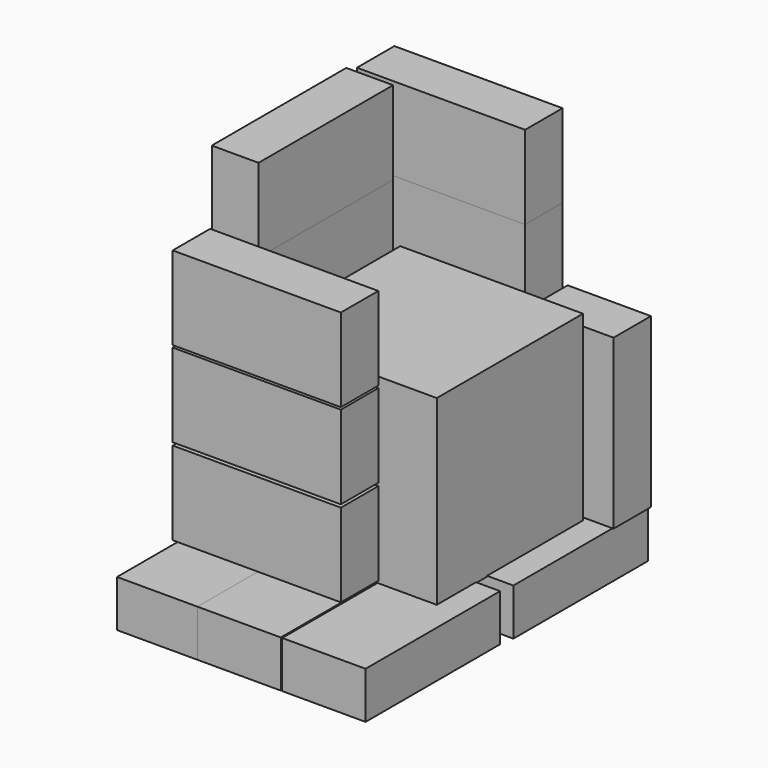
from build123d import *

# Parameters (mm, degrees)
F0_W      = 230
F0_H      = 114
F1_DEPTH  = 64
F2_W      = 250
F2_H      = 250
F3_DEPTH  = 250
F9_ANGLE  = 90
F12_ANGLE = 90
F16_ANGLE = -90
F21_ANGLE = 90
F23_ANGLE = -90
F32_ANGLE = 90


with BuildPart() as f1:
    # F0 (on Front) → F1 (new body)
    with BuildSketch(Plane.XZ):
        with Locations((115, 57)):
            Rectangle(F0_W, F0_H)
    extrude(amount=F1_DEPTH)


with BuildPart() as f3:
    # F2 (on Top) → F3 (new body)
    with BuildSketch(Plane.XY):
        with Locations((125, 125)):
            Rectangle(F2_W, F2_H)
    extrude(amount=F3_DEPTH)


with BuildPart() as f4_1:
    # F4: copy of F1
    add(f1.part.moved(Location((-60, 0, 110))))


with BuildPart() as f1_1:
    # F5: moved
    add(f1.part.moved(Location((-60, 0, 0))))


with BuildPart() as f6_1:
    # F6: copy of F4_1
    add(f4_1.part.moved(Location((0, 315, 0))))


with BuildPart() as f7_1:
    # F7: copy of F1
    add(f1_1.part.moved(Location((0, 315, 0))))


with BuildPart() as f8_1:
    # F8: copy of F1
    add(f1_1.part.moved(Location((-284, 0, 0))))


with BuildPart() as f8_1_1:
    # F9: moved
    add(f8_1.part.rotate(Axis((-344, 0, 57), (0, 0, -1)), F9_ANGLE))


with BuildPart() as f8_1_2:
    # F10: moved
    add(f8_1_1.part.moved(Location((343, 239, 0))))


with BuildPart() as f11_1:
    # F11: copy of F1
    add(f1_1.part.moved(Location((0, 0, -113))))


with BuildPart() as f11_1_1:
    # F12: moved
    add(f11_1.part.rotate(Axis((55, 0, 1), (1, 0, 0)), F12_ANGLE))


with BuildPart() as f13_1:
    # F13: copy of F11_1
    add(f11_1_1.part.moved(Location((0, 212, 0))))


with BuildPart() as f11_1_2:
    # F14: moved
    add(f11_1_1.part.moved(Location((0, -5, 0))))


with BuildPart() as f15_1:
    # F15: copy of F13_1
    add(f13_1.part.moved(Location((0, 131, 0))))


with BuildPart() as f15_1_1:
    # F16: moved
    add(f15_1.part.rotate(Axis((-60, 343, -31), (0, 0, 1)), F16_ANGLE))


with BuildPart() as f15_1_2:
    # F17: moved
    add(f15_1_1.part.moved(Location((0, -27, 0))))


with BuildPart() as f20_1:
    # F20: copy of F15_1
    add(f15_1_2.part.moved(Location((0, -236, 0))))


with BuildPart() as f20_1_1:
    # F21: moved
    add(f20_1.part.rotate(Axis((54, 80, -31), (0, 0, 1)), F21_ANGLE))


with BuildPart() as f22_1:
    # F22: copy of F15_1
    add(f15_1_2.part.moved(Location((108, 0, 0))))


with BuildPart() as f23_1:
    # F23: copy of F20_1
    add(f20_1_1.part.rotate(Axis((54, -34, -31), (0, 0, 1)), F23_ANGLE))


with BuildPart() as f23_1_1:
    # F24: moved
    add(f23_1.part.moved(Location((-111, 101, 0))))


with BuildPart() as f26_1:
    # F26: copy of F23_1
    add(f23_1_1.part.moved(Location((110, 0, 0))))


with BuildPart() as f27_1:
    # F27: copy of F22_1
    add(f22_1.part.moved(Location((112, 0, 0))))


with BuildPart() as f28_1:
    # F28: copy of F8_1
    add(f8_1_2.part.moved(Location((112, 0, 0))))


with BuildPart() as f29_1:
    # F29: copy of F8_1
    add(f8_1_2.part.moved(Location((0, 0, 112))))


with BuildPart() as f30_1:
    # F30: copy of F6_1
    add(f6_1.part.moved(Location((0, 0, 108))))


with BuildPart() as f31_1:
    # F31: copy of F7_1
    add(f7_1.part.moved(Location((7, 0, 0))))


with BuildPart() as f31_1_1:
    # F32: moved
    add(f31_1.part.rotate(Axis((177, 283, 0), (0, 1, 0)), F32_ANGLE))


with BuildPart() as f33_1:
    # F33: copy of F30_1
    add(f30_1.part.moved(Location((0, 0, 109))))


with BuildPart() as f33_2:
    # F33: copy of F29_1
    add(f29_1.part.moved(Location((0, 0, 109))))


with BuildPart() as f34_1:
    # F34: copy of F33_2
    add(f33_2.part.moved(Location((0, 0, 109))))


with BuildPart() as f35_1:
    # F35: copy of F27_1
    add(f27_1.part.moved(Location((112, 0, 0))))


with BuildPart() as f4_1_1:
    # F36: moved
    add(f4_1.part.moved(Location((0, 0, 8))))


with BuildPart() as f22_1_1:
    # F38: moved
    add(f22_1.part.moved(Location((9, 0, 0))))


with BuildPart() as f27_1_1:
    # F38: moved
    add(f27_1.part.moved(Location((9, 0, 0))))


with BuildPart() as f27_1_2:
    # F39: moved
    add(f27_1_1.part.moved(Location((3, 0, 0))))


with BuildPart() as f31_1_2:
    # F40: moved
    add(f31_1_1.part.moved(Location((0, 0, 4))))


with BuildPart() as f6_1_1:
    # F40: moved
    add(f6_1.part.moved(Location((0, 0, 4))))


with BuildPart() as f30_1_1:
    # F40: moved
    add(f30_1.part.moved(Location((0, 0, 4))))


with BuildPart() as f33_1_1:
    # F40: moved
    add(f33_1.part.moved(Location((0, 0, 4))))


with BuildPart() as f7_1_1:
    # F40: moved
    add(f7_1.part.moved(Location((0, 0, 4))))


with BuildPart() as f8_1_3:
    # F40: moved
    add(f8_1_2.part.moved(Location((0, 0, 4))))


with BuildPart() as f1_2:
    # F40: moved
    add(f1_1.part.moved(Location((0, 0, 4))))


with BuildPart() as f4_1_2:
    # F40: moved
    add(f4_1_1.part.moved(Location((0, 0, 4))))


with BuildPart() as f29_1_1:
    # F40: moved
    add(f29_1.part.moved(Location((0, 0, 4))))


with BuildPart() as f33_2_1:
    # F40: moved
    add(f33_2.part.moved(Location((0, 0, 4))))


with BuildPart() as f34_1_1:
    # F40: moved
    add(f34_1.part.moved(Location((0, 0, 4))))


with BuildPart() as f41_1:
    # F41: copy of F26_1
    add(f26_1.part.moved(Location((116, 0, 0))))


with BuildPart() as f42_1:
    # F42: copy of F4_1
    add(f4_1_2.part.moved(Location((0, 0, 117))))


solid = Compound([f3.part, f15_1_2.part, f23_1_1.part, f26_1.part, f28_1.part, f22_1_1.part, f27_1_2.part, f31_1_2.part, f6_1_1.part, f30_1_1.part, f33_1_1.part, f7_1_1.part, f8_1_3.part, f1_2.part, f4_1_2.part, f29_1_1.part, f33_2_1.part, f34_1_1.part, f41_1.part, f42_1.part])
